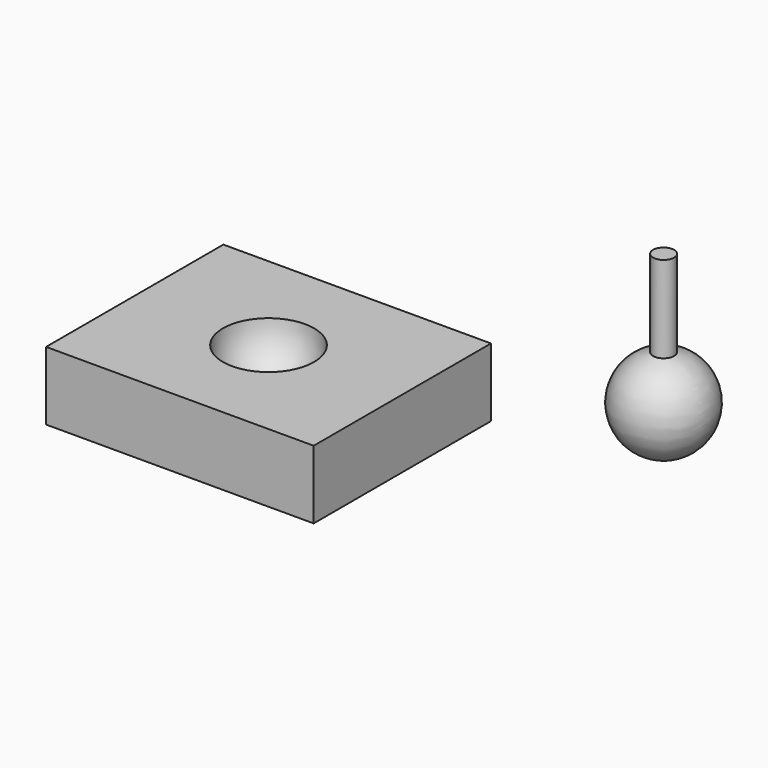
from build123d import *

# Parameters (mm, degrees)
F0_W     = 117.36849
F0_H     = 97.184904
F1_DEPTH = 30


with BuildPart() as f1:
    # F0 (on Top) → F1 (new body)
    with BuildSketch(Plane.XY):
        Rectangle(F0_W, F0_H)
    extrude(amount=-F1_DEPTH)

    # F2 (on Right) → F3 (revolve, cut)
    with BuildSketch(Plane.YZ):
        with BuildLine():
            Line((0, 20), (0, -20))
            ThreePointArc((0, -20), (20, 0), (0, 20))
        make_face()
    revolve(axis=Axis((0, 0, 0), (0, 0, -1)), mode=Mode.SUBTRACT)


with BuildPart() as f5:
    # F4 (on Front) → F5 (revolve)
    with BuildSketch(Plane.XZ):
        with BuildLine():
            Line((173.265755, 91.645658), (173.265755, 14.191176))
            ThreePointArc((173.265755, 14.191176), (193.129796, 31.863115), (177.890226, 53.649189))
            Line((177.890226, 53.649189), (177.890226, 91.645658))
            Line((177.890226, 91.645658), (173.265755, 91.645658))
        make_face()
    revolve(axis=Axis((173.265755, 0, 52.918417), (0, 0, 1)))


solid = Compound([f1.part, f5.part])
